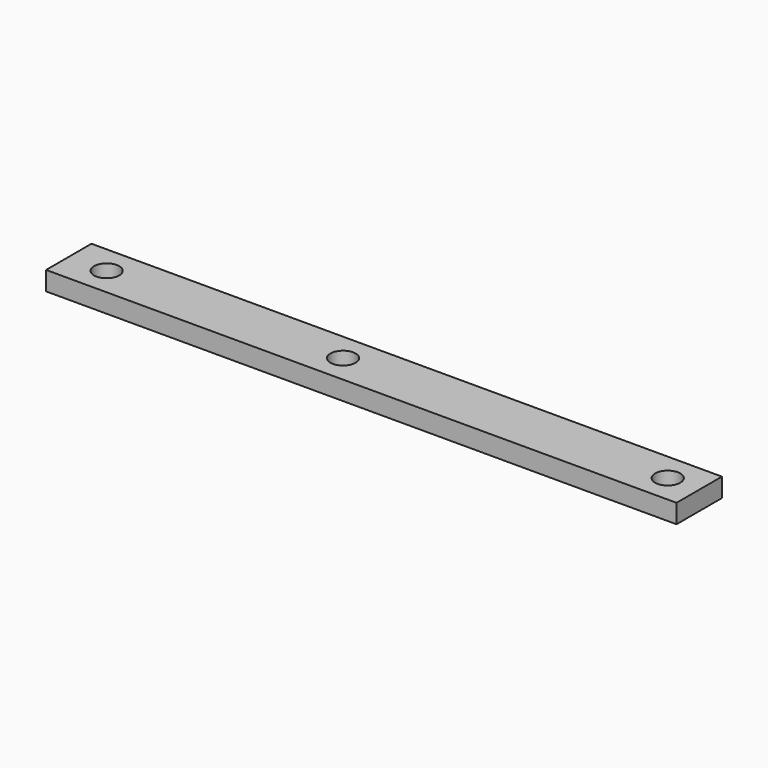
from build123d import *

# Parameters (mm, degrees)
F0_W     = 200
F0_H     = 18
F0_R     = 4
F1_DEPTH = 6


with BuildPart() as f1:
    # F0 (on Top) → F1 (new body)
    with BuildSketch(Plane.XY):
        with Locations((100, 9)):
            Rectangle(F0_W, F0_H)
        with Locations((12, 9)):
            Circle(F0_R, mode=Mode.SUBTRACT)
        with Locations((87, 9)):
            Circle(F0_R, mode=Mode.SUBTRACT)
        with Locations((190, 9)):
            Circle(F0_R, mode=Mode.SUBTRACT)
    extrude(amount=F1_DEPTH)


solid = f1.part
